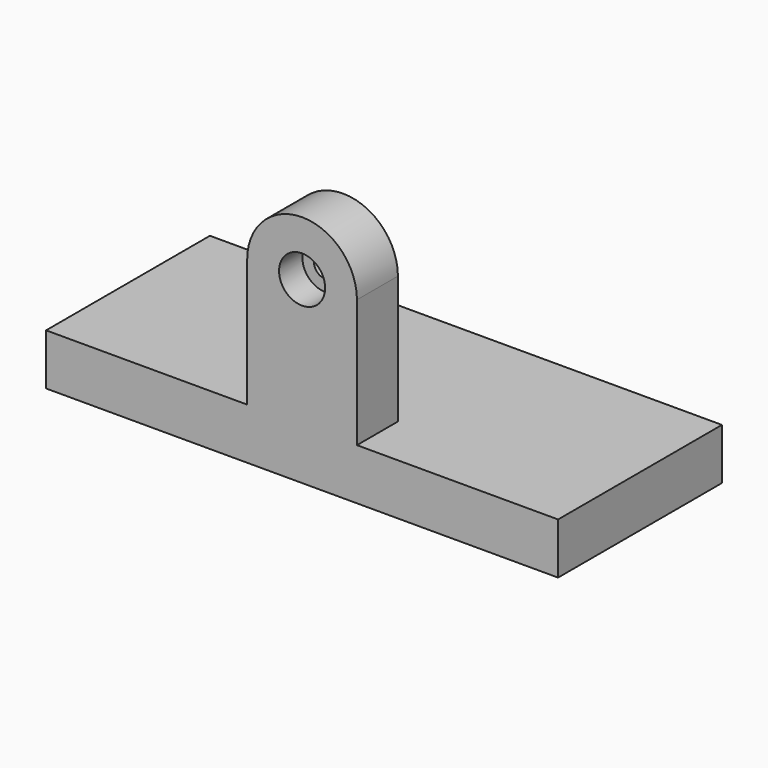
from build123d import *

# Parameters (mm, degrees)
F0_W     = 100
F0_H     = 40
F1_DEPTH = 10
F3_DEPTH = 10
F4_R     = 2.25
F5_DEPTH = 40.001
F6_R     = 4.5
F7_DEPTH = 5.7


with BuildPart() as f1:
    # F0 (on Top) → F1 (new body)
    with BuildSketch(Plane.XY):
        with Locations((50, 20)):
            Rectangle(F0_W, F0_H)
    extrude(amount=F1_DEPTH)

    # F2 (on face) → F3 (join)
    with BuildSketch(Plane.XZ):
        with BuildLine():
            Line((39.282996, 35), (39.282996, 0))
            Line((39.282996, 0), (60.717004, 0))
            Line((60.717004, 0), (60.717004, 35))
            ThreePointArc((60.717004, 35), (50, 45.717004), (39.282996, 35))
        make_face()
    extrude(amount=-F3_DEPTH)

    # F4 (on face) → F5 (cut, through all)
    with BuildSketch(Plane.XZ):
        with Locations((50, 35)):
            Circle(F4_R)
    extrude(amount=-F5_DEPTH, mode=Mode.SUBTRACT)

    # F6 (on face) → F7 (cut)
    with BuildSketch(Plane.XZ):
        with Locations((50, 35)):
            Circle(F6_R)
    extrude(amount=-F7_DEPTH, mode=Mode.SUBTRACT)


solid = f1.part
